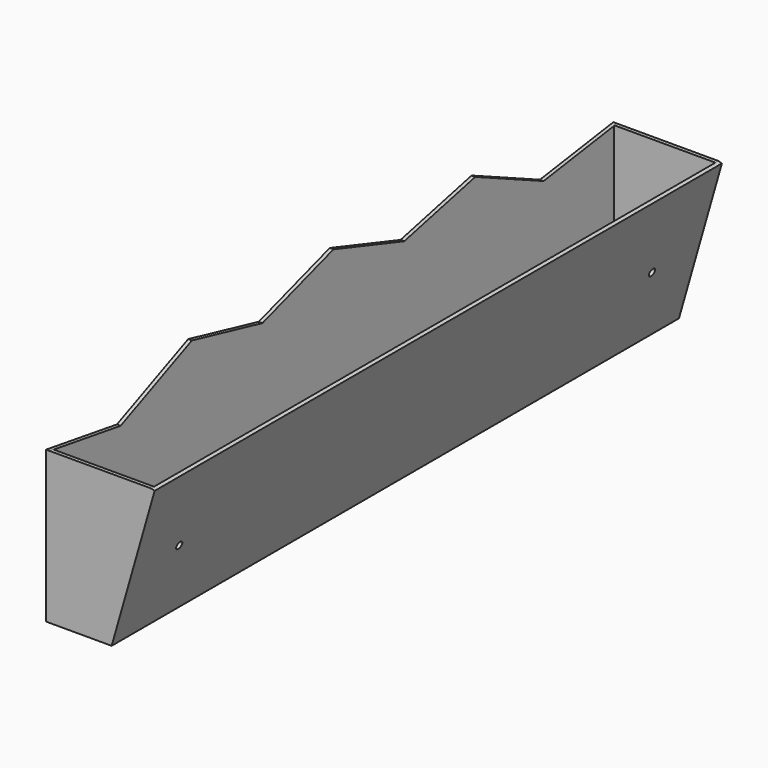
from build123d import *

# Parameters (mm, degrees)
F1_DEPTH  = 304.8
F4_DEPTH  = 1.5875
F6_DEPTH  = 1.5875
F8_DEPTH  = 25.4
F9_DEPTH  = 25.4
F10_DEPTH = 1.5875


with BuildPart() as f1:
    # F0 (on Front) → F1 (new body)
    with BuildSketch(Plane.XZ):
        Polygon((0, 0), (0, 63.5), (-1.5875, 63.5), (-1.5875, -1.5875), (26.5975192948, -1.5875), (45.0656705162, 63.0639608604), (43.5392282085, 63.5), (25.4, 0), align=None)
    extrude(amount=F1_DEPTH)

    # F3 (on face) → F4 (join)
    with BuildSketch(Plane.XZ.offset(304.8)):
        Polygon((43.5392282085, 63.5), (0, 63.5), (0, 0), (25.4, 0), align=None)
    extrude(amount=-F4_DEPTH)

    # F5 (on face) → F6 (join)
    with BuildSketch(Plane(origin=(0, 0, 0), x_dir=(-1, 0, 0), z_dir=(0, 1, 0))):
        Polygon((0, 63.5), (-43.5392282085, 63.5), (-25.4, 0), (0, 0), align=None)
    extrude(amount=-F6_DEPTH)

    # F7 (on face) → F8 (cut)
    with BuildSketch(Plane(origin=(25.0101701183, 0, -7.1443335954), x_dir=(0, 1, 0), z_dir=(0.9615384615, 0, -0.2746703242))):
        with BuildLine():
            ThreePointArc((-279.4, 35.9416069393), (-278.2774679849, 36.4065749241), (-277.8125, 37.5291069393))
            ThreePointArc((-277.8125, 37.5291069393), (-279.4, 39.1166069393), (-280.9875, 37.5291069393))
            ThreePointArc((-280.9875, 37.5291069393), (-280.5225320151, 36.4065749241), (-279.4, 35.9416069393))
        make_face()
        with BuildLine():
            ThreePointArc((-23.8125, 37.5291069393), (-26.5225320151, 38.6516389544), (-25.4, 35.9416069393))
            ThreePointArc((-25.4, 35.9416069393), (-24.2774679849, 36.4065749241), (-23.8125, 37.5291069393))
        make_face()
    extrude(amount=-F8_DEPTH, mode=Mode.SUBTRACT)

    # F2 (on face) → F9 (cut)
    with BuildSketch(Plane.YZ):
        Polygon((-52.2120932715, 63.5), (-39.4870413326, 57.779973409), (-0.1351656424, 63.5), align=None)
        Polygon((-304.8, 63.5), (-266.746729324, 57.5579500411), (-253.1458196474, 63.5), align=None)
    extrude(amount=-F9_DEPTH, mode=Mode.SUBTRACT)

    # F2 (on face) → F10 (join)
    with BuildSketch(Plane.YZ):
        Polygon((-0.1351656424, 63.5), (-39.4870413326, 57.779973409), (0, 63.5), align=None)
        with BuildLine():
            Line((-76.2, 50.6074602206), (0, 50.6074602206))
            ThreePointArc((0, 50.6074602206), (-19.6950538014, 54.4605428278), (-39.4870413326, 57.779973409))
            ThreePointArc((-39.4870413326, 57.779973409), (-57.8141368142, 60.3662538666), (-76.2, 62.4949413282))
            Line((-76.2, 62.4949413282), (-76.2, 50.6074602206))
        make_face()
        with BuildLine():
            Line((-152.4, 50.6074602206), (-76.2, 50.6074602206))
            Line((-76.2, 50.6074602206), (-76.2, 62.4949413282))
            ThreePointArc((-76.2, 62.4949413282), (-81.4321305003, 63.0160017697), (-86.6678194969, 63.5))
            Line((-86.6678194969, 63.5), (-152.4, 63.5))
            Line((-152.4, 63.5), (-152.4, 50.6074602206))
        make_face()
        with BuildLine():
            ThreePointArc((-76.2, 62.4949413282), (-57.8141368142, 60.3662538666), (-39.4870413326, 57.779973409))
            Line((-39.4870413326, 57.779973409), (-52.2120932715, 63.5))
            Line((-52.2120932715, 63.5), (-76.2, 74.2827822634))
            Line((-76.2, 74.2827822634), (-114.3780665248, 65.4410439145))
            ThreePointArc((-114.3780665248, 65.4410439145), (-100.5138654868, 64.6001122426), (-86.6678194969, 63.5))
            Line((-86.6678194969, 63.5), (-76.2, 63.5))
            Line((-76.2, 63.5), (-76.2, 62.4949413282))
        make_face()
        with BuildLine():
            Line((-228.693458648, 50.6074602206), (-152.4, 50.6074602206))
            Line((-152.4, 50.6074602206), (-152.4, 63.5))
            Line((-152.4, 63.5), (-152.4, 66.4151452364))
            ThreePointArc((-152.4, 66.4151452364), (-171.4790500008, 66.1699929381), (-190.545501947, 65.4346979192))
            ThreePointArc((-190.545501947, 65.4346979192), (-209.6384806919, 64.2057492114), (-228.693458648, 62.4852936405))
            Line((-228.693458648, 62.4852936405), (-228.693458648, 50.6074602206))
        make_face()
        with BuildLine():
            Line((-266.746729324, 50.6074602206), (-228.693458648, 50.6074602206))
            Line((-228.693458648, 50.6074602206), (-228.693458648, 62.4852936405))
            ThreePointArc((-228.693458648, 62.4852936405), (-247.7519270715, 60.2674648579), (-266.746729324, 57.5579500411))
            Line((-266.746729324, 57.5579500411), (-266.746729324, 50.6074602206))
        make_face()
        with BuildLine():
            Line((-152.4, 66.4151452364), (-152.4, 63.5))
            Line((-152.4, 63.5), (-86.6678194969, 63.5))
            ThreePointArc((-86.6678194969, 63.5), (-100.5138654868, 64.6001122426), (-114.3780665248, 65.4410439145))
            ThreePointArc((-114.3780665248, 65.4410439145), (-133.3827952989, 66.1715799592), (-152.4, 66.4151452364))
        make_face()
        with BuildLine():
            Line((-304.8, 50.6074602206), (-266.746729324, 50.6074602206))
            Line((-266.746729324, 50.6074602206), (-266.746729324, 57.5579500411))
            ThreePointArc((-266.746729324, 57.5579500411), (-285.818633363, 54.3305469631), (-304.8, 50.6074602206))
        make_face()
        with BuildLine():
            ThreePointArc((-266.746729324, 57.5579500411), (-247.7519270715, 60.2674648579), (-228.693458648, 62.4852936405))
            ThreePointArc((-228.693458648, 62.4852936405), (-209.6384806919, 64.2057492114), (-190.545501947, 65.4346979192))
            Line((-190.545501947, 65.4346979192), (-228.4648343576, 74.2827822634))
            Line((-228.4648343576, 74.2827822634), (-266.746729324, 57.5579500411))
        make_face()
        with BuildLine():
            Line((-152.4, 77.841184886), (-152.4, 66.4151452364))
            ThreePointArc((-152.4, 66.4151452364), (-133.3827952989, 66.1715799592), (-114.3780665248, 65.4410439145))
            Line((-114.3780665248, 65.4410439145), (-152.4, 77.841184886))
        make_face()
        with BuildLine():
            ThreePointArc((-190.545501947, 65.4346979192), (-171.4790500008, 66.1699929381), (-152.4, 66.4151452364))
            Line((-152.4, 66.4151452364), (-152.4, 77.841184886))
            Line((-152.4, 77.841184886), (-190.545501947, 65.4346979192))
        make_face()
    extrude(amount=-F10_DEPTH)


solid = f1.part
